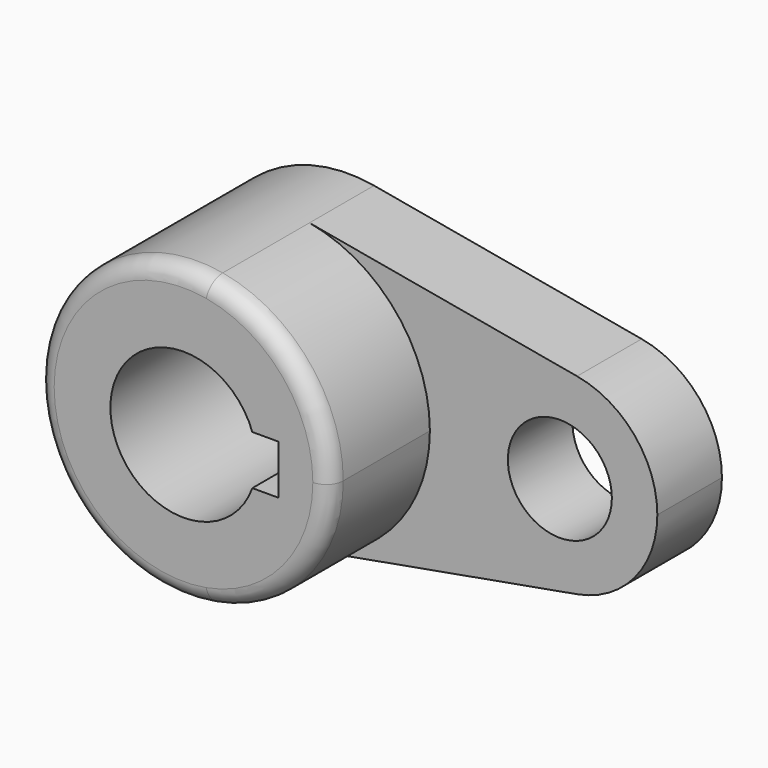
from build123d import *

# Parameters (mm, degrees)
F1_DEPTH = 40.2336
F0_R     = 10.16
F2_DEPTH = 15.7734
F3_R     = 3.302


with BuildPart() as f1:
    # F0 (on Front) → F1 (new body)
    with BuildSketch(Plane.XZ):
        with BuildLine():
            ThreePointArc((-7.791658, -28.126541), (9.081719, -18.336262), (15.740695, 0))
            ThreePointArc((15.740695, 0), (9.081719, 18.336262), (-7.791658, 28.126541))
            ThreePointArc((-7.791658, 28.126541), (-41.409305, 0), (-7.791658, -28.126541))
        make_face()
        with BuildLine():
            ThreePointArc((0.61346, -4.826), (-27.121805, 0), (0.61346, 4.826))
            Line((0.61346, 4.826), (5.694995, 4.826))
            Line((5.694995, 4.826), (5.694995, -4.826))
            Line((5.694995, -4.826), (0.61346, -4.826))
        make_face(mode=Mode.SUBTRACT)
    extrude(amount=F1_DEPTH)

    # F0 (on Front) → F2 (join)
    with BuildSketch(Plane.XZ):
        with BuildLine():
            ThreePointArc((-7.791658, -28.126541), (9.081719, -18.336262), (15.740695, 0))
            ThreePointArc((15.740695, 0), (9.081719, 18.336262), (-7.791658, 28.126541))
            ThreePointArc((-7.791658, 28.126541), (-41.409305, 0), (-7.791658, -28.126541))
        make_face()
        with BuildLine():
            ThreePointArc((0.61346, -4.826), (-27.121805, 0), (0.61346, 4.826))
            Line((0.61346, 4.826), (5.694995, 4.826))
            Line((5.694995, 4.826), (5.694995, -4.826))
            Line((5.694995, -4.826), (0.61346, -4.826))
        make_face(mode=Mode.SUBTRACT)
        with BuildLine():
            ThreePointArc((-7.791658, 28.126541), (9.081719, 18.336262), (15.740695, 0))
            ThreePointArc((15.740695, 0), (9.081719, -18.336262), (-7.791658, -28.126541))
            Line((-7.791658, -28.126541), (44.502459, -18.751028))
            ThreePointArc((44.502459, -18.751028), (22.090695, 0), (44.502459, 18.751028))
            Line((44.502459, 18.751028), (-7.791658, 28.126541))
        make_face()
        with BuildLine():
            ThreePointArc((60.190695, 0), (55.751378, 12.224174), (44.502459, 18.751028))
            ThreePointArc((44.502459, 18.751028), (22.090695, 0), (44.502459, -18.751028))
            ThreePointArc((44.502459, -18.751028), (55.751378, -12.224174), (60.190695, 0))
        make_face()
        with Locations((41.140695, 0)):
            Circle(F0_R, mode=Mode.SUBTRACT)
    extrude(amount=F2_DEPTH)

    # F3
    f3_edges = [f1.edges().sort_by_distance(p)[0] for p in [
        (-17.876952, -40.2336, 28.126541),
    ]]
    fillet(f3_edges, radius=F3_R)


solid = f1.part
